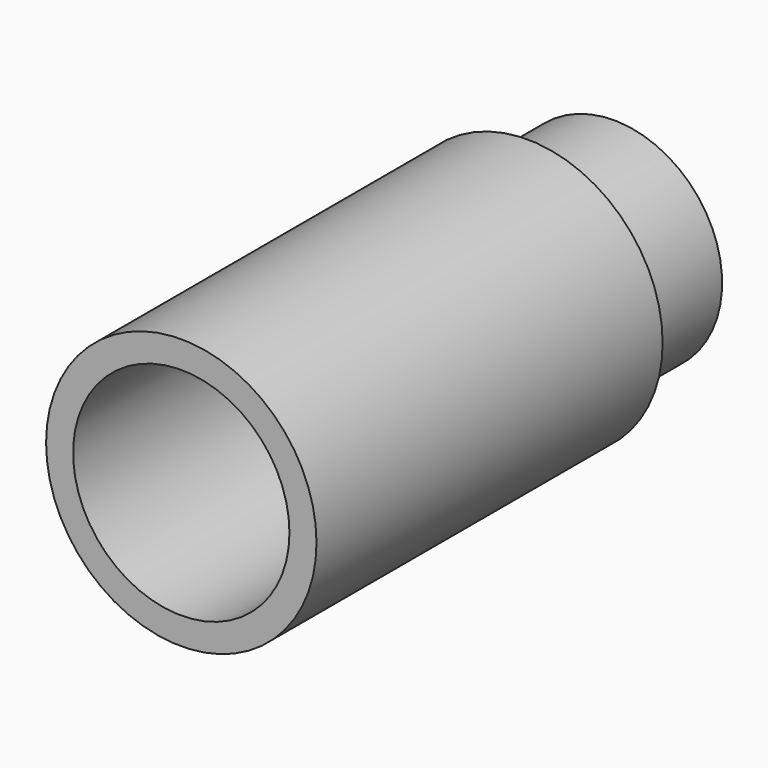
from build123d import *

# Parameters (mm, degrees)
F0_R     = 3.96875
F0_R_2   = 3.175
F1_DEPTH = 12.7
F2_R     = 3.175
F3_DEPTH = 3.175


with BuildPart() as f1:
    # F0 (on Front) → F1 (new body)
    with BuildSketch(Plane.XZ):
        Circle(F0_R)
        Circle(F0_R_2, mode=Mode.SUBTRACT)
    extrude(amount=F1_DEPTH)


with BuildPart() as f3:
    # F2 (on face) → F3 (new body)
    with BuildSketch(Plane(origin=(0, 0, 0), x_dir=(-1, 0, 0), z_dir=(0, 1, 0))):
        Circle(F2_R)
    extrude(amount=F3_DEPTH)


solid = Compound([f1.part, f3.part])
